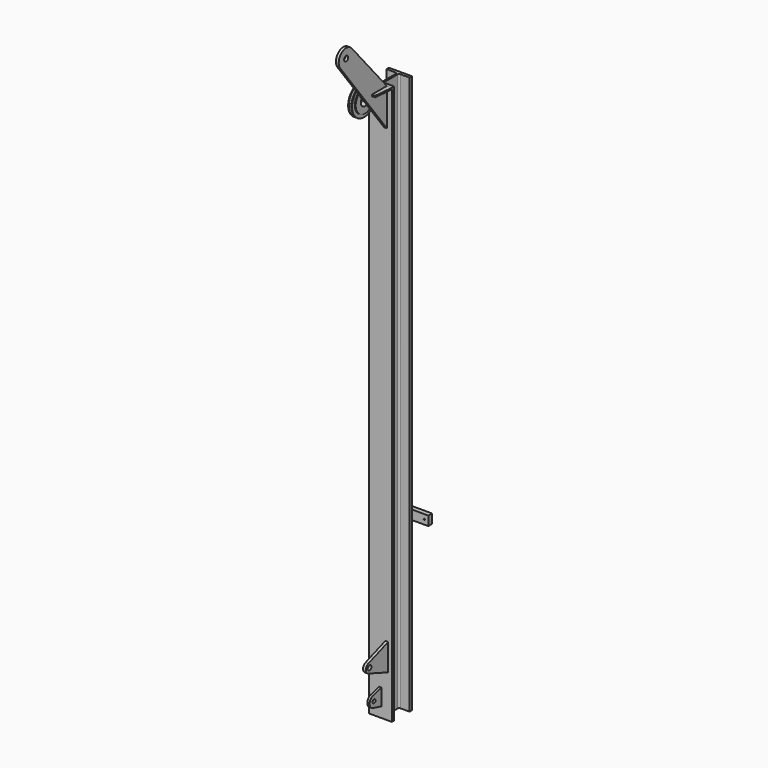
from build123d import *

# Parameters (mm, degrees)
F1_DEPTH  = 6000
F3_START  = -40
F2_R      = 25
F3_DEPTH  = 30
F5_W      = 600
F5_H      = 100
F5_R      = 7.5
F6_DEPTH  = 50
F8_R      = 20
F9_DEPTH  = 12.5
F11_START = 40
F10_R     = 27.5
F11_DEPTH = 30
F4_R      = 162.5
F4_R_2    = 19.1642620286
F12_DEPTH = 30
F13_W     = 9
F13_H     = 37.5
F13_W_2   = 60
F13_H_2   = 55
F16_DEPTH = 15


with BuildPart() as f1:
    # F0 (on Top) → F1 (new body)
    with BuildSketch(Plane.XY):
        with BuildLine():
            Line((124, 135), (0, 135))
            Line((0, 135), (-124, 135))
            Line((-124, 135), (-124, 103))
            Line((-124, 103), (-27, 103))
            ThreePointArc((-27, 103), (-14.2720779386, 97.7279220614), (-9, 85))
            Line((-9, 85), (-9, 0))
            Line((-9, 0), (-9, -85))
            ThreePointArc((-9, -85), (-14.2720779386, -97.7279220614), (-27, -103))
            Line((-27, -103), (-124, -103))
            Line((-124, -103), (-124, -135))
            Line((-124, -135), (0, -135))
            Line((0, -135), (124, -135))
            Line((124, -135), (124, -103))
            Line((124, -103), (27, -103))
            ThreePointArc((27, -103), (14.2720779386, -97.7279220614), (9, -85))
            Line((9, -85), (9, 0))
            Line((9, 0), (9, 85))
            ThreePointArc((9, 85), (14.2720779386, 97.7279220614), (27, 103))
            Line((27, 103), (124, 103))
            Line((124, 103), (124, 135))
        make_face()
    extrude(amount=F1_DEPTH)


with BuildPart() as f3:
    # F2 (on face) → F3 (new body)
    with BuildSketch(Plane.YZ.offset(124).offset(F3_START)):
        with BuildLine():
            Line((-135, 455.7985528097), (-135, 744.2014471903))
            Line((-135, 744.2014471903), (-402.1010071663, 646.9846310393))
            ThreePointArc((-402.1010071663, 646.9846310393), (-435, 600), (-402.1010071663, 553.0153689607))
            Line((-402.1010071663, 553.0153689607), (-135, 455.7985528097))
        make_face()
        with Locations((-385, 600)):
            Circle(F2_R, mode=Mode.SUBTRACT)
    extrude(amount=-F3_DEPTH)


with BuildPart() as f6:
    # F5 (on face) → F6 (new body)
    with BuildSketch(Plane(origin=(0, 135, 0), x_dir=(-1, 0, 0), z_dir=(0, 1, 0))):
        with Locations((0, 1850)):
            Rectangle(F5_W, F5_H)
        with Locations((-257.5, 1850)):
            Circle(F5_R, mode=Mode.SUBTRACT)
        with Locations((257.5, 1850)):
            Circle(F5_R, mode=Mode.SUBTRACT)
    extrude(amount=F6_DEPTH)


with BuildPart() as f9:
    # F8 (on Right) → F9 (new body, symmetric)
    with BuildSketch(Plane.YZ):
        with BuildLine():
            Line((-135, 111.0885099323), (-135, 288.9114900677))
            Line((-135, 288.9114900677), (-250.5291427062, 257.9555495773))
            ThreePointArc((-250.5291427062, 257.9555495773), (-295, 200), (-250.5291427062, 142.0444504227))
            Line((-250.5291427062, 142.0444504227), (-135, 111.0885099323))
        make_face()
        with Locations((-235, 200)):
            Circle(F8_R, mode=Mode.SUBTRACT)
    extrude(amount=F9_DEPTH, both=True)


with BuildPart() as f11:
    # F10 (on Right) → F11 (new body)
    with BuildSketch(Plane.YZ.offset(F11_START)):
        with BuildLine():
            Line((-135, 5600), (-135, 6000))
            Line((-135, 6000), (-605.4206107898, 6547.0006710523))
            ThreePointArc((-605.4206107898, 6547.0006710523), (-744.1741649128, 6559.50891005), (-760.7770757471, 6421.1855635881))
            Line((-760.7770757471, 6421.1855635881), (-135, 5600))
        make_face()
        with Locations((-681.2391281128, 6481.7967414856)):
            Circle(F10_R, mode=Mode.SUBTRACT)
    extrude(amount=F11_DEPTH)


with BuildPart() as f12:
    # F4 (on Right) → F12 (new body, symmetric)
    with BuildSketch(Plane.YZ):
        with Locations((-378.6671314531, 5950)):
            Circle(F4_R)
        with Locations((-378.6671314531, 5950)):
            Circle(F4_R_2, mode=Mode.SUBTRACT)
    extrude(amount=F12_DEPTH, both=True)

    # F13 (on plane+point) → F14 (revolve, cut)
    with BuildSketch(Plane.XY.offset(5950)):
        with Locations((-25.5, -234.9171314531)):
            Rectangle(F13_W, F13_H)
        with BuildLine():
            Line((13.9169313754, -216.1671314531), (-13.9169313754, -216.1671314531))
            Line((-13.9169313754, -216.1671314531), (-6.9290964938, -233.0372571958))
            ThreePointArc((-6.9290964938, -233.0372571958), (0, -237.6671314531), (6.9290964938, -233.0372571958))
            Line((6.9290964938, -233.0372571958), (13.9169313754, -216.1671314531))
        make_face()
        with Locations((25.5, -234.9171314531)):
            Rectangle(F13_W, F13_H)
        with Locations((0, -351.1671314531)):
            Rectangle(F13_W_2, F13_H_2)
    revolve(axis=Axis((0, -378.6671314531, 5950), (1, 0, 0)), mode=Mode.SUBTRACT)


with BuildPart() as f16:
    # F15 (on face) → F16 (new body)
    with BuildSketch(Plane.XY.offset(6000)):
        Polygon((70, -135), (70, -335.0761973858), (104.4628120399, -335.0761973858), (124, -135), align=None)
    extrude(amount=-F16_DEPTH)


solid = Compound([f1.part, f3.part, f6.part, f9.part, f11.part, f12.part, f16.part])
